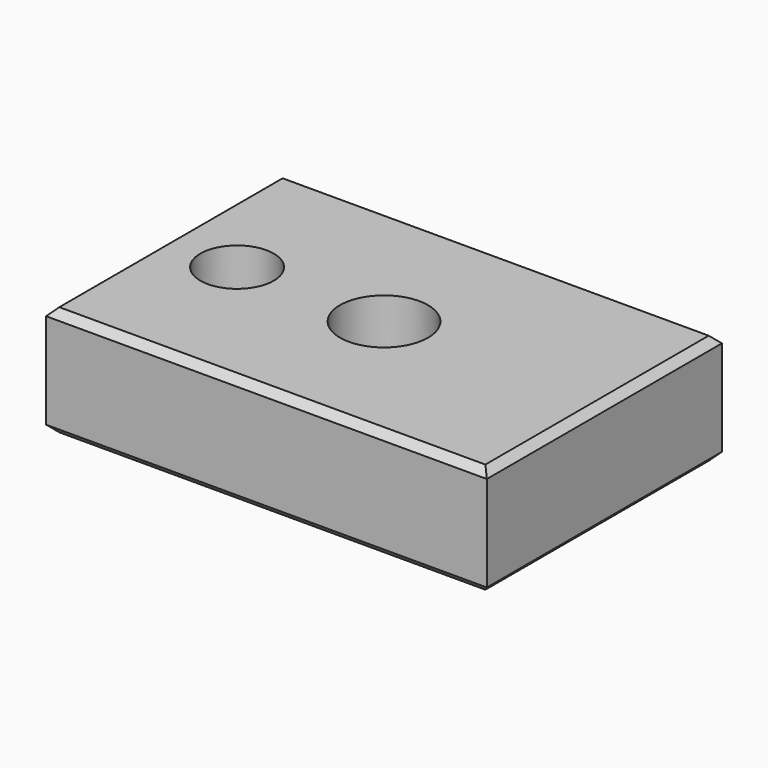
from build123d import *

# Parameters (mm, degrees)
F0_W     = 60
F0_H     = 40
F1_DEPTH = 15
F2_SIZE  = 1
F3_R     = 5
F3_R_2   = 6
F4_DEPTH = 15.001


with BuildPart() as f1:
    # F0 (on Top) → F1 (new body)
    with BuildSketch(Plane.XY):
        Rectangle(F0_W, F0_H)
    extrude(amount=-F1_DEPTH)

    # F2
    f2_edges = [f1.edges().sort_by_distance(p)[0] for p in [
        (30, 0, 0),
        (0, 20, 0),
        (-30, 0, 0),
        (0, -20, 0),
        (30, 0, -15),
        (0, 20, -15),
        (-30, 0, -15),
        (0, -20, -15),
    ]]
    chamfer(f2_edges, length=F2_SIZE)

    # F3 (on face) → F4 (cut, through all)
    with BuildSketch(Plane.XY):
        with Locations((-20, 0)):
            Circle(F3_R)
        Circle(F3_R_2)
    extrude(amount=-F4_DEPTH, mode=Mode.SUBTRACT)


solid = f1.part
